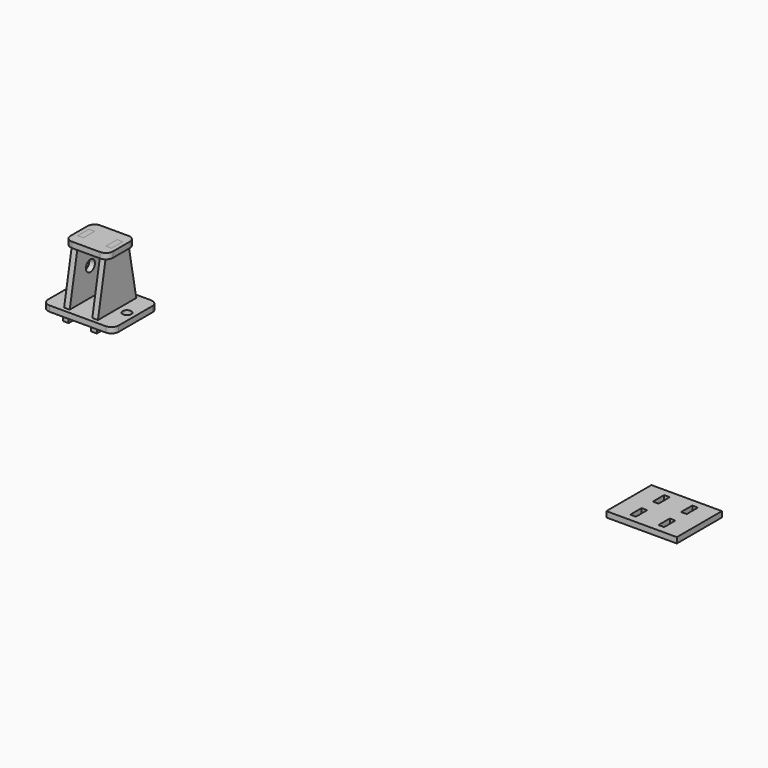
from build123d import *

# Parameters (mm, degrees)
F1_W      = 50
F1_H      = 40
F1_W_2    = 4
F1_H_2    = 10
F2_DEPTH  = 4
F3_R      = 5
F4_R      = 4
F5_DEPTH  = 4
F7_DEPTH  = 4
F8_W      = 30
F8_H      = 25
F8_W_2    = 4
F8_H_2    = 10
F9_DEPTH  = 4
F10_R     = 5
F11_R     = 3
F12_DEPTH = 25


with BuildPart() as f2:
    # F1 (on Top) → F2 (new body)
    with BuildSketch(Plane.XY):
        with Locations((-200, 0)):
            Rectangle(F1_W, F1_H)
        with Locations((-210, -10)):
            Rectangle(F1_W_2, F1_H_2, mode=Mode.SUBTRACT)
        with Locations((-190, -10)):
            Rectangle(F1_W_2, F1_H_2, mode=Mode.SUBTRACT)
        with Locations((-210, 10)):
            Rectangle(F1_W_2, F1_H_2, mode=Mode.SUBTRACT)
        with Locations((-190, 10)):
            Rectangle(F1_W_2, F1_H_2, mode=Mode.SUBTRACT)
        with Locations((200, 0)):
            Rectangle(F1_W, F1_H)
        with Locations((190, -10)):
            Rectangle(F1_W_2, F1_H_2, mode=Mode.SUBTRACT)
        with Locations((210, -10)):
            Rectangle(F1_W_2, F1_H_2, mode=Mode.SUBTRACT)
        with Locations((190, 10)):
            Rectangle(F1_W_2, F1_H_2, mode=Mode.SUBTRACT)
        with Locations((210, 10)):
            Rectangle(F1_W_2, F1_H_2, mode=Mode.SUBTRACT)
    extrude(amount=F2_DEPTH)

    # F3
    f3_edges = [f2.edges().sort_by_distance(p)[0] for p in [
        (-175, 20, 2),
        (-225, 20, 2),
        (-175, -20, 2),
        (-225, -20, 2),
    ]]
    fillet(f3_edges, radius=F3_R)

    # F11 (on face) → F12 (cut)
    with BuildSketch(Plane.XY.offset(4)):
        with Locations((-219, 0)):
            Circle(F11_R)
        with Locations((-181, 0)):
            Circle(F11_R)
    extrude(amount=-F12_DEPTH, mode=Mode.SUBTRACT)


with BuildPart() as f5:
    # F4 (on face) → F5 (new body)
    with BuildSketch(Plane(origin=(-208, 0, 0), x_dir=(0, -1, 0), z_dir=(-1, 0, 0))):
        Polygon((5, 44), (-5, 44), (-5, 40), (-10.110191, 40), (-17, 4), (-15, 4), (-12, 4), (-5, 4), (8, 4), (8, -4), (18, -4), (18, 0), (15, 0), (15, 4), (17, 4), (10.110191, 40), (5, 40), align=None)
        with Locations((-1.344657, 24)):
            Circle(F4_R, mode=Mode.SUBTRACT)
        Polygon((-5, 4), (-12, 4), (-12, -4), (-2, -4), (-2, 0), (-5, 0), align=None)
    extrude(amount=F5_DEPTH)


with BuildPart() as f7:
    # F6 (on face) → F7 (new body)
    with BuildSketch(Plane(origin=(-188, 0, 0), x_dir=(0, -1, 0), z_dir=(-1, 0, 0))):
        Polygon((-10.110191, 40), (-17, 4), (-12, 4), (-12, -4), (-2, -4), (-2, 0), (-5, 0), (-5, 4), (8, 4), (8, -4), (18, -4), (18, 0), (15, 0), (15, 4), (17, 4), (10.110191, 40), (5, 40), (5, 44), (-5, 44), (-5, 40), align=None)
    extrude(amount=F7_DEPTH)


with BuildPart() as f9:
    # F8 (on face) → F9 (new body)
    with BuildSketch(Plane.XY.offset(40)):
        with Locations((-200, 0)):
            Rectangle(F8_W, F8_H)
        with Locations((-210, 0)):
            Rectangle(F8_W_2, F8_H_2, mode=Mode.SUBTRACT)
        with Locations((-190, 0)):
            Rectangle(F8_W_2, F8_H_2, mode=Mode.SUBTRACT)
    extrude(amount=F9_DEPTH)

    # F10
    f10_edges = [f9.edges().sort_by_distance(p)[0] for p in [
        (-215, -12.5, 42),
        (-185, -12.5, 42),
        (-185, 12.5, 42),
        (-215, 12.5, 42),
    ]]
    fillet(f10_edges, radius=F10_R)


solid = Compound([f2.part, f5.part, f7.part, f9.part])
